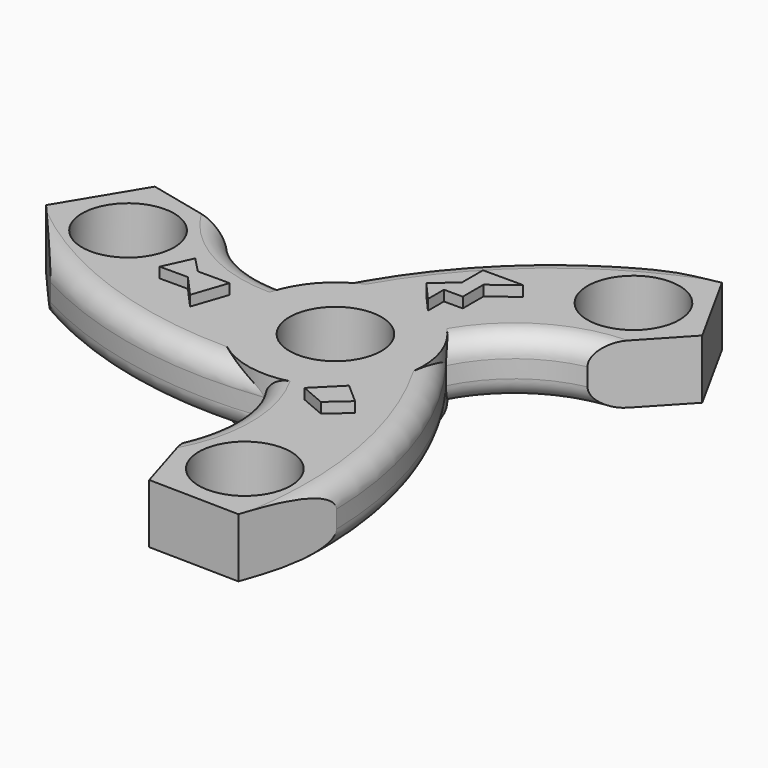
from build123d import *

# Parameters (mm, degrees)
F0_R     = 11.2522
F1_DEPTH = 14.478
F3_DEPTH = 2.794
F6_DEPTH = 2.54
F7_R     = 5.08
F8_R     = 5.08


with BuildPart() as f1:
    # F0 (on Top) → F1 (new body)
    with BuildSketch(Plane.XY):
        with BuildLine():
            ThreePointArc((-0.0934366453, -21.3837822978), (15.0876908076, -15.1537606508), (21.383986433, 0))
            ThreePointArc((21.383986433, 0), (20.7134769469, 5.3128851424), (18.7439970535, 10.292592007))
            ThreePointArc((18.7439970535, 10.292592007), (18.6554862484, 10.4521628672), (18.5656170215, 10.6109726405))
            ThreePointArc((18.5656170215, 10.6109726405), (0.2759045567, 21.3822064447), (-18.2856446757, 11.0864816133))
            ThreePointArc((-18.2856446757, 11.0864816133), (-18.3795816917, 10.9300435775), (-18.4721803763, 10.7728096574))
            ThreePointArc((-18.4721803763, 10.7728096574), (-18.6554862484, -10.4521628672), (-0.4583523779, -21.3790736203))
            ThreePointArc((-0.4583523779, -21.3790736203), (-0.2759045567, -21.3822064447), (-0.0934366453, -21.3837822978))
        make_face()
        Circle(F0_R, mode=Mode.SUBTRACT)
        with BuildLine():
            ThreePointArc((-18.2856446757, 11.0864816133), (0.2759045567, 21.3822064447), (18.5656170215, 10.6109726405))
            ThreePointArc((18.5656170215, 10.6109726405), (27.3638885749, 21.3294942878), (39.9649013188, 27.1183427449))
            Line((39.9649013188, 27.1183427449), (19.9132791261, 36.5173902131))
            Line((19.9132791261, 36.5173902131), (22.6560124454, 58.4920815604))
            ThreePointArc((22.6560124454, 58.4920815604), (-1.5265576613, 37.9949123536), (-18.2856446757, 11.0864816133))
        make_face()
        with BuildLine():
            ThreePointArc((18.7439970535, 10.292592007), (20.7134769469, 5.3128851424), (21.383986433, 0))
            ThreePointArc((21.383986433, 0), (15.0876908076, -15.1537606508), (-0.0934366453, -21.3837822978))
            ThreePointArc((-0.0934366453, -21.3837822978), (4.7899396157, -34.3625697961), (3.5027230662, -48.1697911743))
            Line((3.5027230662, -48.1697911743), (21.6683480414, -35.5041007024))
            Line((21.6683480414, -35.5041007024), (39.3276223288, -48.8667231064))
            ThreePointArc((39.3276223288, -48.8667231064), (33.6678381434, -17.6754184618), (18.7439970535, 10.292592007))
        make_face()
        with BuildLine():
            ThreePointArc((-61.9836347742, -9.625358454), (-32.1412804821, -20.3194938918), (-0.4583523779, -21.3790736203))
            ThreePointArc((-0.4583523779, -21.3790736203), (-18.6554862484, -10.4521628672), (-18.4721803763, 10.7728096574))
            ThreePointArc((-18.4721803763, 10.7728096574), (-32.1538281906, 13.0330755083), (-43.467624385, 21.0514484294))
            Line((-43.467624385, 21.0514484294), (-41.5816271675, -1.0132895107))
            Line((-41.5816271675, -1.0132895107), (-61.9836347742, -9.625358454))
        make_face()
        Polygon((-76.4787661314, 7.1168281656), (-61.9836347742, -9.625358454), (-41.5816271675, -1.0132895107), (-43.467624385, 21.0514484294), (-65.0352423748, 26.0761374859), align=None)
        with Locations((-57.7093789666, 8.7211532232)):
            Circle(F0_R, mode=Mode.SUBTRACT)
        Polygon((19.9132791261, 36.5173902131), (39.9649013188, 27.1183427449), (55.1002186828, 43.2841032949), (44.4027370515, 62.6741402371), (22.6560124454, 58.4920815604), align=None)
        with Locations((36.4074297249, 45.6172116101)):
            Circle(F0_R, mode=Mode.SUBTRACT)
        Polygon((32.0760290799, -69.7909684027), (39.3276223288, -48.8667231064), (21.6683480414, -35.5041007024), (3.5027230662, -48.1697911743), (9.935023692, -69.3602407808), align=None)
        with Locations((21.3019492417, -54.3383648333)):
            Circle(F0_R, mode=Mode.SUBTRACT)
    extrude(amount=F1_DEPTH)

    # F2 (on Top) → F3 (join)
    with BuildSketch(Plane.XY):
        Polygon((-39.4248701632, 0), (-30.5028893054, -10.7927164063), (-25.8979983628, 3.0219603796), align=None)
        Polygon((3.4581904765, 28.3488668501), (13.8191953301, 20.0025010854), (16.6972558945, 32.6659530401), align=None)
        Polygon((13.8191953301, -28.0610620975), (19.5544261123, -35.4831234077), (23.9401894152, -25.0247640904), align=None)
    extrude(amount=-F3_DEPTH)

    # F5 (on face) → F6 (join)
    with BuildSketch(Plane.XY.offset(14.478)):
        Polygon((-33.6687527597, 0), (-37.4102294445, 3.8853778969), (-40.5760928988, -3.0219603796), (-33.6687527597, -3.0219603796), (-28.7760552019, -8.4902700037), (-25.8979983628, 0), align=None)
        Polygon((18.424089998, 34.3927890062), (10.941138491, 34.3927890062), (8.5888597203, 34.3927890062), (8.5888597203, 27.9832297722), (3.4581904765, 23.4561692923), (7.775275968, 18.5634717345), (7.775275968, 23.4561692923), (12.3801669106, 23.4561692923), (12.3801669106, 29.7878943384), align=None)
        Polygon((18.424089998, -27.4854488671), (23.3167856932, -23.1683626771), (18.424089998, -18.8512764871), (12.3801669106, -24.8951986432), align=None)
    extrude(amount=F6_DEPTH)

    # F7 (call 1 of 10: OpenCascade refuses the feature's edges together)
    f7_edges = [f1.edges().sort_by_distance(p)[0] for p in [
        (-32.14128, -20.319494, 14.478),
    ]]
    fillet(f7_edges, radius=F7_R)

    # F7#2 (call 2 of 10)
    f7_2_edges = [f1.edges().sort_by_distance(p)[0] for p in [
        (33.667838, -17.675418, 14.478),
    ]]
    fillet(f7_2_edges, radius=F7_R)

    # F7#3 (call 3 of 10)
    f7_3_edges = [f1.edges().sort_by_distance(p)[0] for p in [
        (27.363889, 21.329494, 14.478),
    ]]
    fillet(f7_3_edges, radius=F7_R)

    # F7#4 (call 4 of 10)
    f7_4_edges = [f1.edges().sort_by_distance(p)[0] for p in [
        (27.363889, 21.329494, 0),
    ]]
    fillet(f7_4_edges, radius=F7_R)

    # F7#5 (call 5 of 10)
    f7_5_edges = [f1.edges().sort_by_distance(p)[0] for p in [
        (33.667838, -17.675418, 0),
    ]]
    fillet(f7_5_edges, radius=F7_R)

    # F7#6 (call 6 of 10)
    f7_6_edges = [f1.edges().sort_by_distance(p)[0] for p in [
        (-32.14128, -20.319494, 0),
    ]]
    fillet(f7_6_edges, radius=F7_R)

    # F7#7 (call 7 of 10)
    f7_7_edges = [f1.edges().sort_by_distance(p)[0] for p in [
        (-32.153828, 13.033076, 14.478),
    ]]
    fillet(f7_7_edges, radius=F7_R)

    # F7#8 (call 8 of 10)
    f7_8_edges = [f1.edges().sort_by_distance(p)[0] for p in [
        (-1.526558, 37.994912, 14.478),
    ]]
    fillet(f7_8_edges, radius=F7_R)

    # F7#9 (call 9 of 10)
    f7_9_edges = [f1.edges().sort_by_distance(p)[0] for p in [
        (-32.153828, 13.033076, 0),
    ]]
    fillet(f7_9_edges, radius=F7_R)

    # F7#10 (call 10 of 10)
    f7_10_edges = [f1.edges().sort_by_distance(p)[0] for p in [
        (-1.526558, 37.994912, 0),
    ]]
    fillet(f7_10_edges, radius=F7_R)

    # F8
    f8_edges = [f1.edges().sort_by_distance(p)[0] for p in [
        (4.78994, -34.36257, 14.478),
        (4.78994, -34.36257, 0),
    ]]
    fillet(f8_edges, radius=F8_R)


solid = f1.part
